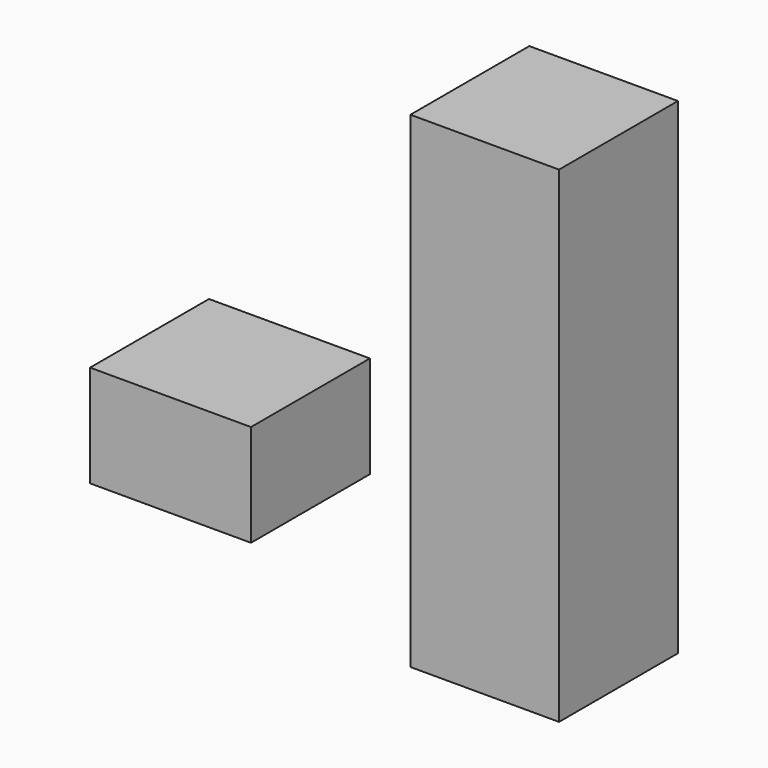
from build123d import *

# Parameters (mm, degrees)
F0_W     = 44.45
F0_H     = 145.415
F1_W     = 48.12479
F1_H     = 30.48
F2_DEPTH = 44.45


with BuildPart() as f2:
    # F0 (on Front) + F1 (on face) → F2 (new body)
    with BuildSketch(Plane.XZ):
        with Locations((-66.879058, 77.905476)):
            Rectangle(F0_W, F0_H)
    with BuildSketch(Plane.XZ):
        with Locations((-160.845518, 37.631606)):
            Rectangle(F1_W, F1_H)
    extrude(amount=F2_DEPTH)


solid = f2.part
